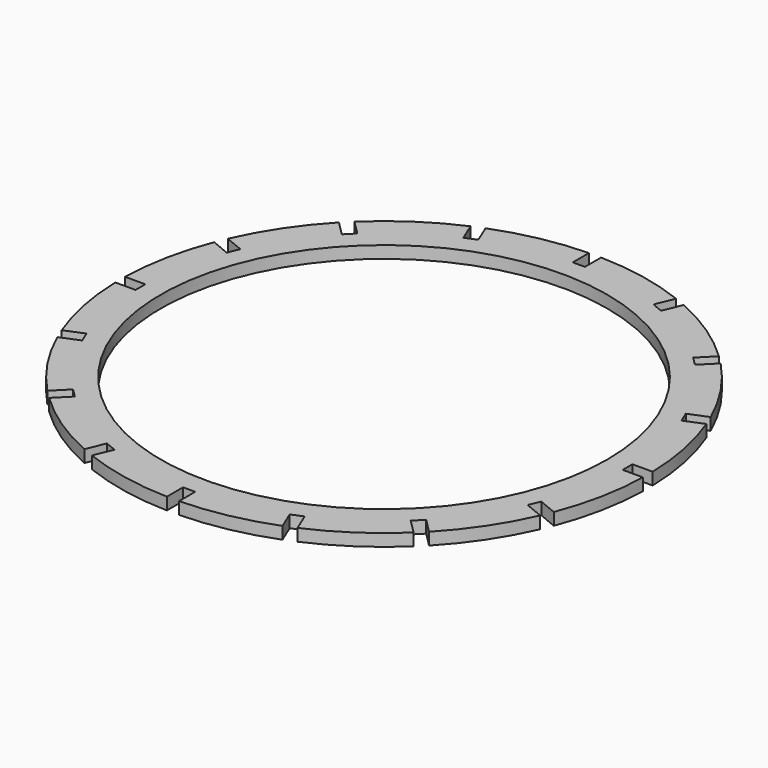
from build123d import *

# Parameters (mm, degrees)
F0_R     = 55
F1_DEPTH = 3


with BuildPart() as f1:
    # F0 (on Top) → F1 (new body)
    with BuildSketch(Plane.XY):
        with BuildLine():
            Line((60, 1.5), (64.98269, 1.5))
            ThreePointArc((64.98269, 1.5), (63.751043, 12.680871), (60.610202, 23.48198))
            Line((60.610202, 23.48198), (56.006797, 21.575187))
            Line((56.006797, 21.575187), (54.858747, 24.346825))
            Line((54.858747, 24.346825), (59.462152, 26.253618))
            ThreePointArc((59.462152, 26.253618), (54.045525, 36.112065), (47.010361, 44.889041))
            Line((47.010361, 44.889041), (43.487067, 41.365747))
            Line((43.487067, 41.365747), (41.365747, 43.487067))
            Line((41.365747, 43.487067), (44.889041, 47.010361))
            ThreePointArc((44.889041, 47.010361), (36.112065, 54.045525), (26.253618, 59.462152))
            Line((26.253618, 59.462152), (24.346825, 54.858747))
            Line((24.346825, 54.858747), (21.575187, 56.006797))
            Line((21.575187, 56.006797), (23.48198, 60.610202))
            ThreePointArc((23.48198, 60.610202), (12.680871, 63.751043), (1.5, 64.98269))
            Line((1.5, 64.98269), (1.5, 60))
            Line((1.5, 60), (-1.5, 60))
            Line((-1.5, 60), (-1.5, 64.98269))
            ThreePointArc((-1.5, 64.98269), (-12.680871, 63.751043), (-23.48198, 60.610202))
            Line((-23.48198, 60.610202), (-21.575187, 56.006797))
            Line((-21.575187, 56.006797), (-24.346825, 54.858747))
            Line((-24.346825, 54.858747), (-26.253618, 59.462152))
            ThreePointArc((-26.253618, 59.462152), (-36.112065, 54.045525), (-44.889041, 47.010361))
            Line((-44.889041, 47.010361), (-41.365747, 43.487067))
            Line((-41.365747, 43.487067), (-43.487067, 41.365747))
            Line((-43.487067, 41.365747), (-47.010361, 44.889041))
            ThreePointArc((-47.010361, 44.889041), (-54.045525, 36.112065), (-59.462152, 26.253618))
            Line((-59.462152, 26.253618), (-54.858747, 24.346825))
            Line((-54.858747, 24.346825), (-56.006797, 21.575187))
            Line((-56.006797, 21.575187), (-60.610202, 23.48198))
            ThreePointArc((-60.610202, 23.48198), (-63.751043, 12.680871), (-64.98269, 1.5))
            Line((-64.98269, 1.5), (-60, 1.5))
            Line((-60, 1.5), (-60, -1.5))
            Line((-60, -1.5), (-64.98269, -1.5))
            ThreePointArc((-64.98269, -1.5), (-63.751043, -12.680871), (-60.610202, -23.48198))
            Line((-60.610202, -23.48198), (-56.006797, -21.575187))
            Line((-56.006797, -21.575187), (-54.858747, -24.346825))
            Line((-54.858747, -24.346825), (-59.462152, -26.253618))
            ThreePointArc((-59.462152, -26.253618), (-54.045525, -36.112065), (-47.010361, -44.889041))
            Line((-47.010361, -44.889041), (-43.487067, -41.365747))
            Line((-43.487067, -41.365747), (-41.365747, -43.487067))
            Line((-41.365747, -43.487067), (-44.889041, -47.010361))
            ThreePointArc((-44.889041, -47.010361), (-36.112065, -54.045525), (-26.253618, -59.462152))
            Line((-26.253618, -59.462152), (-24.346825, -54.858747))
            Line((-24.346825, -54.858747), (-21.575187, -56.006797))
            Line((-21.575187, -56.006797), (-23.48198, -60.610202))
            ThreePointArc((-23.48198, -60.610202), (-12.680871, -63.751043), (-1.5, -64.98269))
            Line((-1.5, -64.98269), (-1.5, -60))
            Line((-1.5, -60), (0, -60))
            Line((0, -60), (1.5, -60))
            Line((1.5, -60), (1.5, -64.98269))
            ThreePointArc((1.5, -64.98269), (12.680871, -63.751043), (23.48198, -60.610202))
            Line((23.48198, -60.610202), (21.575187, -56.006797))
            Line((21.575187, -56.006797), (24.346825, -54.858747))
            Line((24.346825, -54.858747), (26.253618, -59.462152))
            ThreePointArc((26.253618, -59.462152), (36.112065, -54.045525), (44.889041, -47.010361))
            Line((44.889041, -47.010361), (41.365747, -43.487067))
            Line((41.365747, -43.487067), (43.487067, -41.365747))
            Line((43.487067, -41.365747), (47.010361, -44.889041))
            ThreePointArc((47.010361, -44.889041), (54.045525, -36.112065), (59.462152, -26.253618))
            Line((59.462152, -26.253618), (54.858747, -24.346825))
            Line((54.858747, -24.346825), (56.006797, -21.575187))
            Line((56.006797, -21.575187), (60.610202, -23.48198))
            ThreePointArc((60.610202, -23.48198), (63.751043, -12.680871), (64.98269, -1.5))
            Line((64.98269, -1.5), (60, -1.5))
            Line((60, -1.5), (60, 1.5))
        make_face()
        Circle(F0_R, mode=Mode.SUBTRACT)
    extrude(amount=F1_DEPTH)


solid = f1.part
